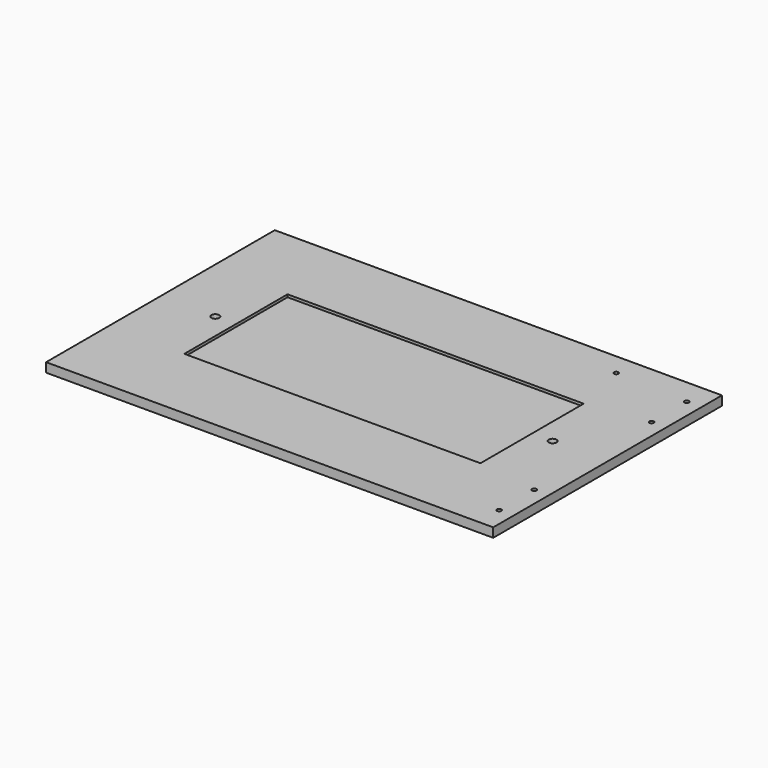
from build123d import *

# Parameters (mm, degrees)
F0_W     = 387.35
F0_H     = 247.65
F1_DEPTH = 8.001
F3_D     = 3.7973
F5_D     = 6.7564
F6_W     = 256.54
F6_H     = 111.76
F7_DEPTH = 2.286
F9_D     = 3.7973


with BuildPart() as f1:
    # F0 (on Top) → F1 (new body)
    with BuildSketch(Plane.XY):
        with Locations((193.675, 123.825)):
            Rectangle(F0_W, F0_H)
    extrude(amount=F1_DEPTH)

    # F3 (through all)
    with Locations(Plane.XY.offset(8.001)):
        with Locations((374.65, 225.425), (374.65, 187.325), (374.65, 60.325), (374.65, 22.225)):
            Hole(F3_D / 2)

    # F5 (through all)
    with Locations(Plane.XY.offset(8.001)):
        with Locations((47.625, 123.825), (339.725, 123.825)):
            Hole(F5_D / 2)

    # F6 (on face) → F7 (cut)
    with BuildSketch(Plane.XY.offset(8.001)):
        with Locations((193.675, 123.825)):
            Rectangle(F6_W, F6_H)
    extrude(amount=-F7_DEPTH, mode=Mode.SUBTRACT)

    # F9 (through all)
    with Locations(Plane.XY.offset(8.001)):
        with Locations((311.15, 228.6)):
            Hole(F9_D / 2)


solid = f1.part
